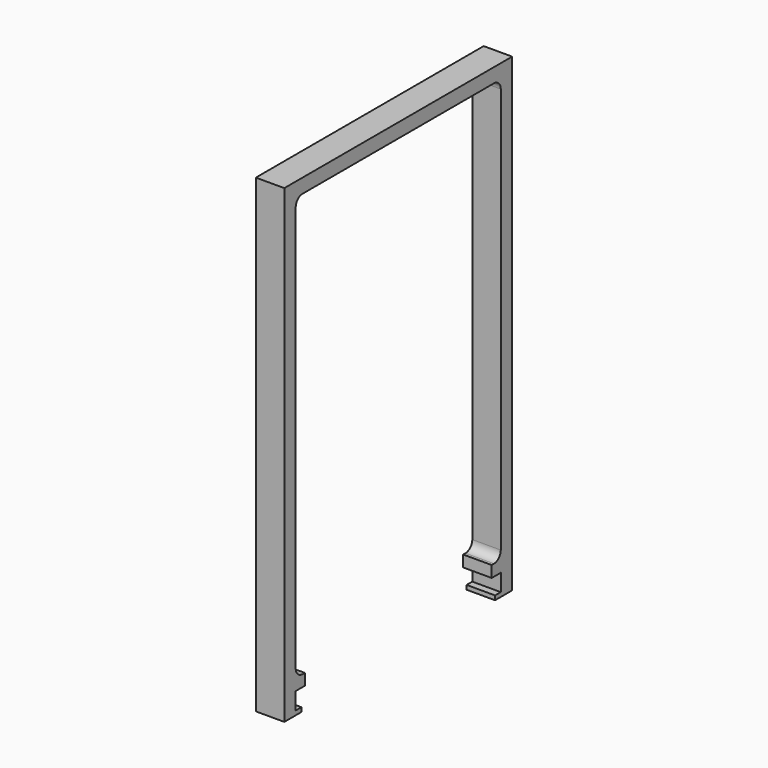
from build123d import *

# Parameters (mm, degrees)
F1_DEPTH = 10
F2_R     = 3


with BuildPart() as f1:
    # F0 (on Right) → F1 (new body)
    with BuildSketch(Plane.YZ):
        Polygon((50, 0), (0, 0), (-50, 0), (-50, -165), (-42.5, -165), (-42.5, -163.5), (-45, -163.5), (-45, -157.5), (-41, -157.5), (-41, -153.5), (-45, -153.5), (-45, -5), (0, -5), (45, -5), (45, -153.5), (41, -153.5), (41, -157.5), (45, -157.5), (45, -163.5), (42.5, -163.5), (42.5, -165), (50, -165), align=None)
    extrude(amount=F1_DEPTH)

    # F2
    f2_edges = [f1.edges().sort_by_distance(p)[0] for p in [
        (5, -45, -5),
        (5, 45, -5),
        (5, 45, -153.5),
        (5, -45, -153.5),
    ]]
    fillet(f2_edges, radius=F2_R)


solid = f1.part
